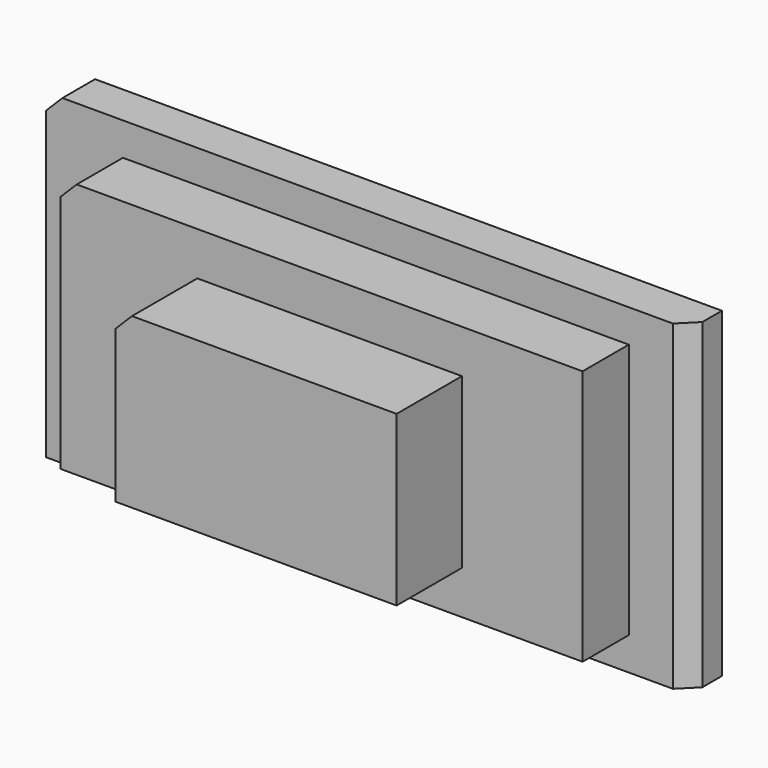
from build123d import *

# Parameters (mm, degrees)
F0_W       = 200
F0_H       = 100
F0_W_2     = 162.3857170343
F0_H_2     = 79.5144736767
F1_DEPTH   = 12.7
F2_DEPTH   = 30.65165
F3_R       = 18.2059366906
F4_DEPTH   = 77.93234
F5_W       = 87.3743593693
F5_H       = 52.4778924882
F6_DEPTH   = 25.4
F7_R       = 18.2059366906
F8_DEPTH   = 25.71261
F9_R       = 18.2059366906
F10_DEPTH  = 33.7499
F11_SIZE   = 5.08
F11_2_SIZE = 5.08
F12_SIZE   = 2.54


with BuildPart() as f1:
    # F0 (on Front) → F1 (new body)
    with BuildSketch(Plane.XZ):
        Rectangle(F0_W, F0_H)
        Rectangle(F0_W_2, F0_H_2, mode=Mode.SUBTRACT)
    extrude(amount=F1_DEPTH)

    # F0 (on Front) → F2 (join)
    with BuildSketch(Plane.XZ):
        Rectangle(F0_W_2, F0_H_2)
    extrude(amount=F2_DEPTH)

    # F3 (on face) → F4 (cut)
    with BuildSketch(Plane.XZ.offset(30.65165)):
        Circle(F3_R)
    extrude(amount=-F4_DEPTH, mode=Mode.SUBTRACT)

    # F11#2
    f11_2_edges = [f1.edges().sort_by_distance(p)[0] for p in [
        (100, -12.7, 0),
        (-81.192859, -21.675825, 39.757237),
        (-100, -6.35, 50),
    ]]
    chamfer(f11_2_edges, length=F11_2_SIZE)


with BuildPart() as f6:
    # F5 (on face) → F6 (new body)
    with BuildSketch(Plane.XZ.offset(30.65165)):
        Rectangle(F5_W, F5_H)
    extrude(amount=F6_DEPTH)



with BuildPart() as f8:
    # F7 (on face) → F8 (new body)
    with BuildSketch(Plane.XZ):
        Circle(F7_R)
    extrude(amount=-F8_DEPTH)


with BuildPart() as f6_1:
    add(f6.part)

    add(f8.part)  # F10 merges F8
    # F9 (on face) → F10 (join)
    with BuildSketch(Plane.XZ):
        Circle(F9_R)
    extrude(amount=F10_DEPTH)

    # F11
    f11_edges = [f6_1.edges().sort_by_distance(p)[0] for p in [
        (-43.68718, -43.35165, 26.238946),
    ]]
    chamfer(f11_edges, length=F11_SIZE)

    # F12
    f12_edges = [f6_1.edges().sort_by_distance(p)[0] for p in [
        (-18.205937, 25.71261, 0),
    ]]
    chamfer(f12_edges, length=F12_SIZE)


solid = Compound([f1.part, f6_1.part])
